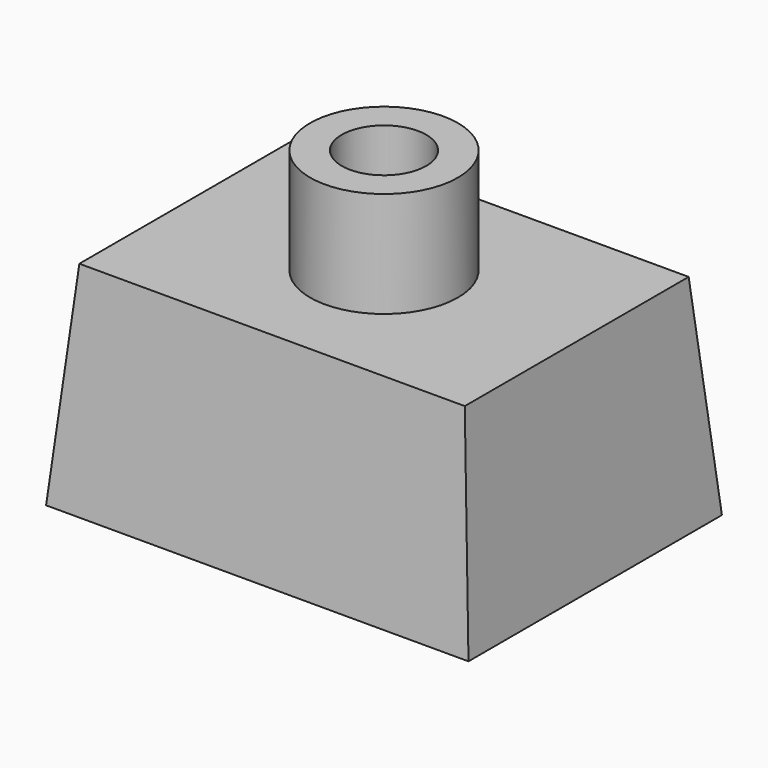
from build123d import *

# Parameters (mm, degrees)
F0_W     = 50.8
F0_H     = 38.1
F1_DEPTH = 25.4
F1_TAPER = 5
F2_R     = 8.89
F3_DEPTH = 12.7
F4_R     = 5.08
F5_DEPTH = 38.101
F6_T     = -2.54


with BuildPart() as f1:
    # F0 (on Top) → F1 (new body)
    with BuildSketch(Plane.XY):
        Rectangle(F0_W, F0_H)
    extrude(amount=F1_DEPTH, taper=F1_TAPER)

    # F2 (on face) → F3 (join)
    with BuildSketch(Plane.XY.offset(25.4)):
        Circle(F2_R)
    extrude(amount=F3_DEPTH)

    # F4 (on face) → F5 (cut, through all)
    with BuildSketch(Plane.XY.offset(38.1)):
        Circle(F4_R)
    extrude(amount=-F5_DEPTH, mode=Mode.SUBTRACT)

    # F6
    f6_openings = [f1.faces().sort_by_distance(p)[0] for p in [
        (24.765, 0, 0),
    ]]
    offset(amount=F6_T, openings=f6_openings, kind=Kind.INTERSECTION)


solid = f1.part
